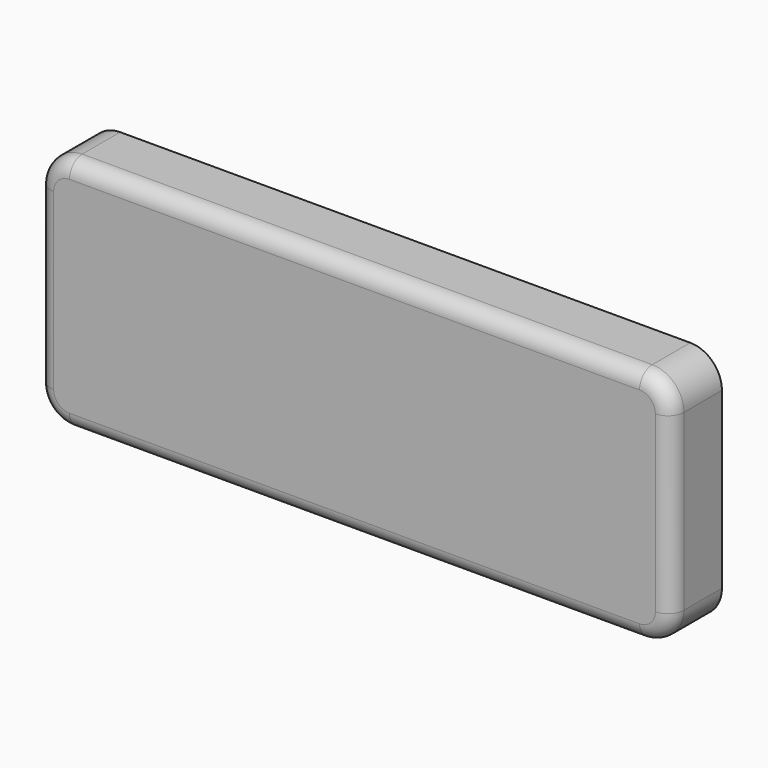
from build123d import *

# Parameters (mm, degrees)
F0_W     = 508
F0_H     = 190.5
F1_DEPTH = 50.8
F2_R     = 25.4
F3_R     = 12.7


with BuildPart() as f1:
    # F0 (on Front) → F1 (new body)
    with BuildSketch(Plane.XZ):
        with Locations((254, 95.25)):
            Rectangle(F0_W, F0_H)
    extrude(amount=-F1_DEPTH)

    # F2
    f2_edges = [f1.edges().sort_by_distance(p)[0] for p in [
        (0, 25.4, 190.5),
        (508, 25.4, 190.5),
        (508, 25.4, 0),
        (0, 25.4, 0),
    ]]
    fillet(f2_edges, radius=F2_R)

    # F3
    f3_edges = [f1.edges().sort_by_distance(p)[0] for p in [
        (254, 0, 190.5),
    ]]
    fillet(f3_edges, radius=F3_R)


solid = f1.part
